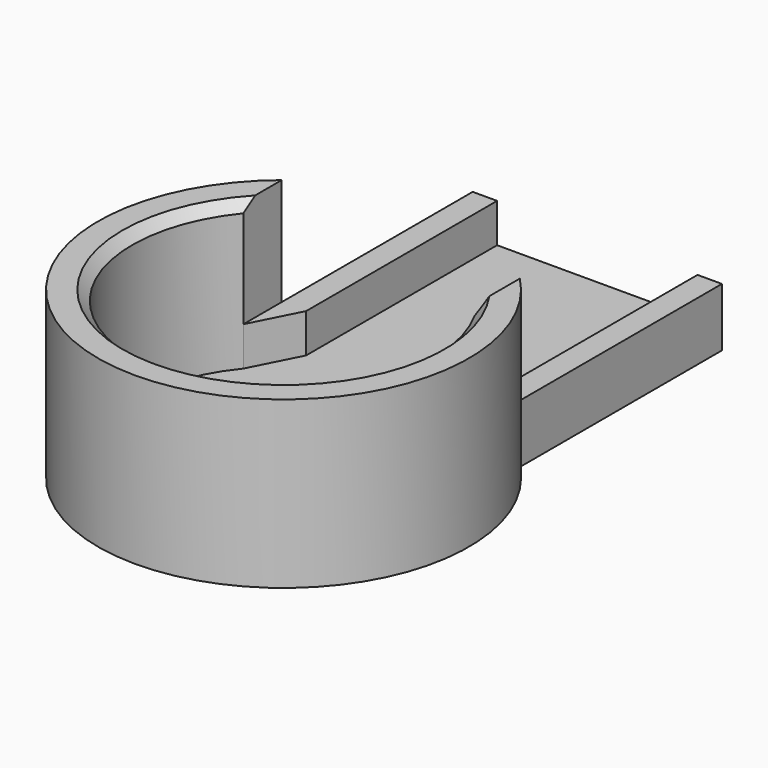
from build123d import *

# Parameters (mm, degrees)
F1_DEPTH = 2
F2_DEPTH = 15
F4_DEPTH = 4
F5_SIZE  = 1


with BuildPart() as f1:
    # F0 (on Top) → F1 (new body)
    with BuildSketch(Plane.XY):
        with BuildLine():
            Line((-41.924741, 25.953611), (-41.924741, 21.040638))
            ThreePointArc((-41.924741, 21.040638), (-31.332281, -4.229339), (-16.396854, 18.742492))
            Line((-16.396854, 18.742492), (-16.396854, 24.531709))
            Line((-16.396854, 24.531709), (-16.396854, 50.408155))
            Line((-16.396854, 50.408155), (-41.924741, 50.408155))
            Line((-41.924741, 50.408155), (-41.924741, 25.953611))
        make_face()
        with BuildLine():
            ThreePointArc((-16.396854, 18.742492), (-31.332281, -4.229339), (-41.924741, 21.040638))
            Line((-41.924741, 21.040638), (-41.924741, 25.953611))
            ThreePointArc((-41.924741, 25.953611), (-30.999175, -7.762364), (-16.396854, 24.531709))
            Line((-16.396854, 24.531709), (-16.396854, 18.742492))
        make_face()
    extrude(amount=-F1_DEPTH)

    # F0 (on Top) → F2 (join)
    with BuildSketch(Plane.XY):
        with BuildLine():
            ThreePointArc((-16.396854, 18.742492), (-31.332281, -4.229339), (-41.924741, 21.040638))
            Line((-41.924741, 21.040638), (-41.924741, 25.953611))
            ThreePointArc((-41.924741, 25.953611), (-30.999175, -7.762364), (-16.396854, 24.531709))
            Line((-16.396854, 24.531709), (-16.396854, 18.742492))
        make_face()
    extrude(amount=F2_DEPTH)

    # F3 (on Top) → F4 (join)
    with BuildSketch(Plane.XY):
        Polygon((-39.424741, 47.908155), (-39.424741, 50.408155), (-41.924741, 50.408155), (-41.924741, 25.953611), (-41.924741, 21.040638), (-39.424741, 25.953611), align=None)
        Polygon((-16.396854, 24.531709), (-16.396854, 50.408155), (-18.896854, 50.408155), (-18.896854, 47.908155), (-18.896854, 24.531709), (-16.396854, 18.742492), align=None)
    extrude(amount=F4_DEPTH)

    # F5
    f5_edges = [f1.edges().sort_by_distance(p)[0] for p in [
        (-31.332281, -4.229339, 15),
    ]]
    chamfer(f5_edges, length=F5_SIZE)


solid = f1.part
